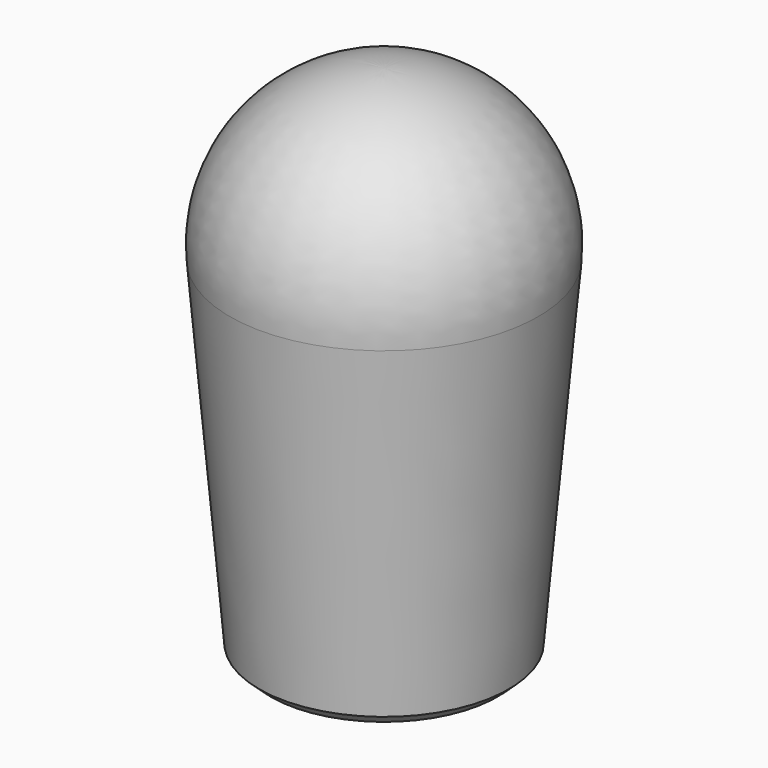
from build123d import *

# Parameters (mm, degrees)
F2_W     = 9.4
F2_H     = 3.02
F3_DEPTH = 20
F4_SIZE  = 0.5


with BuildPart() as f1:
    # F0 (on Front) → F1 (revolve)
    with BuildSketch(Plane.XZ):
        with BuildLine():
            Line((0, 0), (0, 25))
            ThreePointArc((0, 25), (-5.529221, 22.567318), (-7.471553, 16.847389))
            Line((-7.471553, 16.847389), (-6, 0))
            Line((-6, 0), (0, 0))
        make_face()
    revolve(axis=Axis((0, 0, 13.963234), (0, 0, 1)))

    # F2 (on face) → F3 (cut)
    with BuildSketch(Plane(origin=(0, 0, 0), x_dir=(1, 0, 0), z_dir=(0, 0, -1))):
        Rectangle(F2_W, F2_H)
    extrude(amount=-F3_DEPTH, mode=Mode.SUBTRACT)

    # F4
    f4_edges = [f1.edges().sort_by_distance(p)[0] for p in [
        (6, 0, 0),
    ]]
    chamfer(f4_edges, length=F4_SIZE)


solid = f1.part
